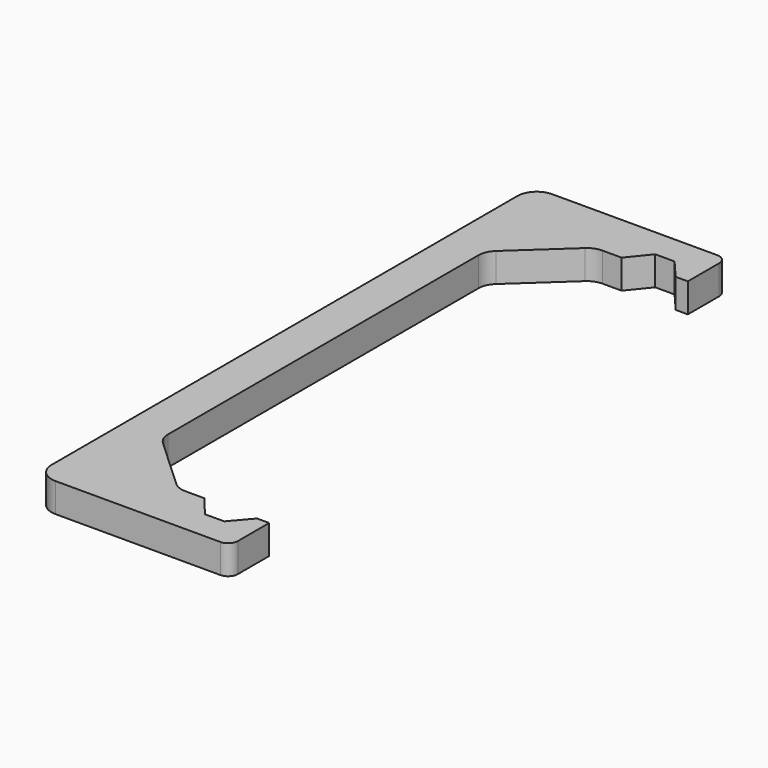
from build123d import *

# Parameters (mm, degrees)
F1_DEPTH = 9.525


with BuildPart() as f1:
    # F0 (on Top) → F1 (new body)
    with BuildSketch(Plane.XY):
        with BuildLine():
            Line((-2.285999, 147.979229), (-46.735999, 147.979229))
            ThreePointArc((-46.735999, 147.979229), (-51.226127, 146.119357), (-53.085999, 141.629229))
            Line((-53.085999, 141.629229), (-53.085999, -48.870771))
            ThreePointArc((-53.085999, -48.870771), (-51.226127, -53.360899), (-46.735999, -55.220771))
            Line((-46.735999, -55.220771), (-2.285999, -55.220771))
            Line((-2.285999, -55.220771), (7.239001, -55.220771))
            ThreePointArc((7.239001, -55.220771), (9.484065, -54.290835), (10.414001, -52.045771))
            Line((10.414001, -52.045771), (10.414001, -39.218631))
            Line((10.414001, -39.218631), (6.426201, -39.218631))
            Line((6.426201, -39.218631), (0.889001, -45.695771))
            Line((0.889001, -45.695771), (-5.460999, -45.695771))
            Line((-5.460999, -45.695771), (-10.998199, -38.880926))
            Line((-10.998199, -38.880926), (-17.265751, -38.880926))
            ThreePointArc((-17.265751, -38.880926), (-19.578043, -38.444961), (-21.57283, -37.196928))
            Line((-21.57283, -37.196928), (-38.343077, -21.7167))
            ThreePointArc((-38.343077, -21.7167), (-39.85289, -19.597514), (-40.385999, -17.050698))
            Line((-40.385999, -17.050698), (-40.385999, 109.809156))
            ThreePointArc((-40.385999, 109.809156), (-39.85289, 112.355972), (-38.343077, 114.475157))
            Line((-38.343077, 114.475157), (-21.57283, 129.955386))
            ThreePointArc((-21.57283, 129.955386), (-19.578043, 131.203419), (-17.265751, 131.639384))
            Line((-17.265751, 131.639384), (-10.998199, 131.639384))
            Line((-10.998199, 131.639384), (-5.460999, 138.454229))
            Line((-5.460999, 138.454229), (0.889001, 138.454229))
            Line((0.889001, 138.454229), (6.426201, 131.977089))
            Line((6.426201, 131.977089), (10.414001, 131.977089))
            Line((10.414001, 131.977089), (10.414001, 144.804229))
            ThreePointArc((10.414001, 144.804229), (9.484065, 147.049293), (7.239001, 147.979229))
            Line((7.239001, 147.979229), (-2.285999, 147.979229))
        make_face()
        with BuildLine():
            Line((-2.285999, 147.979229), (-46.735999, 147.979229))
            ThreePointArc((-46.735999, 147.979229), (-51.226127, 146.119357), (-53.085999, 141.629229))
            Line((-53.085999, 141.629229), (-53.085999, -48.870771))
            ThreePointArc((-53.085999, -48.870771), (-51.226127, -53.360899), (-46.735999, -55.220771))
            Line((-46.735999, -55.220771), (-2.285999, -55.220771))
            Line((-2.285999, -55.220771), (7.239001, -55.220771))
            ThreePointArc((7.239001, -55.220771), (9.484065, -54.290835), (10.414001, -52.045771))
            Line((10.414001, -52.045771), (10.414001, -39.218631))
            Line((10.414001, -39.218631), (6.426201, -39.218631))
            Line((6.426201, -39.218631), (0.889001, -45.695771))
            Line((0.889001, -45.695771), (-5.460999, -45.695771))
            Line((-5.460999, -45.695771), (-10.998199, -38.880926))
            Line((-10.998199, -38.880926), (-17.265751, -38.880926))
            ThreePointArc((-17.265751, -38.880926), (-19.578043, -38.444961), (-21.57283, -37.196928))
            Line((-21.57283, -37.196928), (-38.343077, -21.7167))
            ThreePointArc((-38.343077, -21.7167), (-39.85289, -19.597514), (-40.385999, -17.050698))
            Line((-40.385999, -17.050698), (-40.385999, 109.809156))
            ThreePointArc((-40.385999, 109.809156), (-39.85289, 112.355972), (-38.343077, 114.475157))
            Line((-38.343077, 114.475157), (-21.57283, 129.955386))
            ThreePointArc((-21.57283, 129.955386), (-19.578043, 131.203419), (-17.265751, 131.639384))
            Line((-17.265751, 131.639384), (-10.998199, 131.639384))
            Line((-10.998199, 131.639384), (-5.460999, 138.454229))
            Line((-5.460999, 138.454229), (0.889001, 138.454229))
            Line((0.889001, 138.454229), (6.426201, 131.977089))
            Line((6.426201, 131.977089), (10.414001, 131.977089))
            Line((10.414001, 131.977089), (10.414001, 144.804229))
            ThreePointArc((10.414001, 144.804229), (9.484065, 147.049293), (7.239001, 147.979229))
            Line((7.239001, 147.979229), (-2.285999, 147.979229))
        make_face()
    extrude(amount=F1_DEPTH)


solid = f1.part
